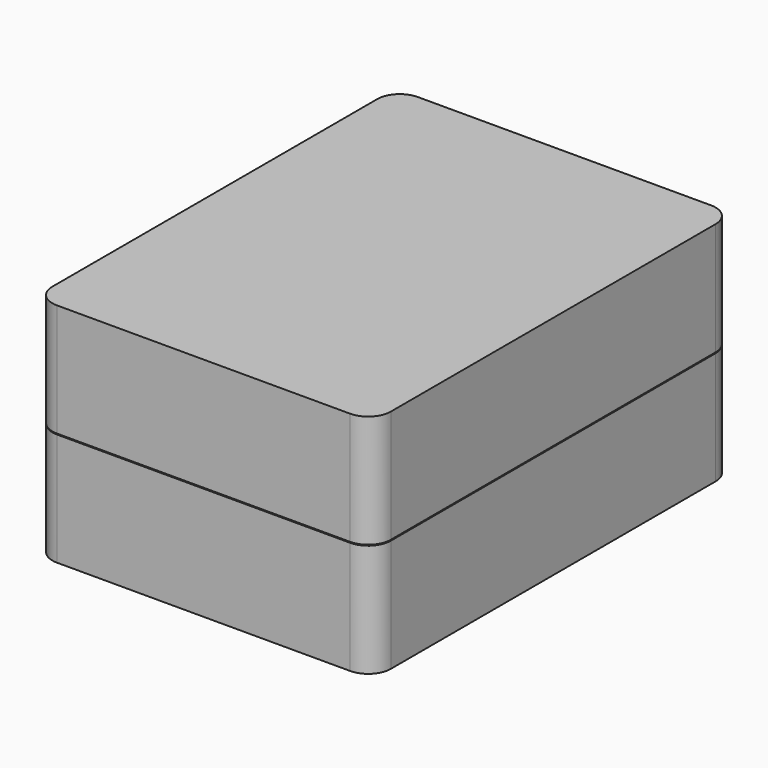
from build123d import *

# Parameters (mm, degrees)
PAD_DEPTH      = 25
THICKNESS_T    = -2
PAD001_DEPTH   = 3
PAD002_DEPTH   = 25
THICKNESS001_T = -2
POCKET_DEPTH   = 3


with BuildPart() as base:
    # Sketch → Pad (new body)
    with BuildSketch(Plane.XY):
        with BuildLine():
            Line((-37.5, 45), (-37.5, -45))
            ThreePointArc((-37.5, -45), (-36.035534, -48.535534), (-32.5, -50))
            Line((-32.5, -50), (32.5, -50))
            ThreePointArc((32.5, -50), (36.035534, -48.535534), (37.5, -45))
            Line((37.5, -45), (37.5, 45))
            ThreePointArc((37.5, 45), (36.035534, 48.535534), (32.5, 50))
            Line((32.5, 50), (-32.5, 50))
            ThreePointArc((-32.5, 50), (-36.035534, 48.535534), (-37.5, 45))
        make_face()
    extrude(amount=PAD_DEPTH)

    # Thickness
    thickness_openings = [base.faces().sort_by_distance(p)[0] for p in [
        (0, 0, 25),
    ]]
    offset(amount=THICKNESS_T, openings=thickness_openings)

    # Sketch001 (on Face10 of Thickness) → Pad001 (join)
    with BuildSketch(Plane.XY.offset(25)):
        with BuildLine():
            Line((-36.5, 45), (-36.5, -45))
            ThreePointArc((-36.5, -45), (-35.328427, -47.828427), (-32.5, -49))
            Line((-32.5, -49), (32.5, -49))
            ThreePointArc((32.5, -49), (35.328427, -47.828427), (36.5, -45))
            Line((36.5, -45), (36.5, 45))
            ThreePointArc((36.5, 45), (35.328427, 47.828427), (32.5, 49))
            Line((32.5, 49), (-32.5, 49))
            ThreePointArc((-32.5, 49), (-35.328427, 47.828427), (-36.5, 45))
        make_face()
        with BuildLine():
            Line((-35.5, 45), (-35.5, -45))
            ThreePointArc((-35.5, -45), (-34.62132, -47.12132), (-32.5, -48))
            Line((-32.5, -48), (32.5, -48))
            ThreePointArc((32.5, -48), (34.62132, -47.12132), (35.5, -45))
            Line((35.5, -45), (35.5, 45))
            ThreePointArc((35.5, 45), (34.62132, 47.12132), (32.5, 48))
            Line((32.5, 48), (-32.5, 48))
            ThreePointArc((-32.5, 48), (-34.62132, 47.12132), (-35.5, 45))
        make_face(mode=Mode.SUBTRACT)
    extrude(amount=PAD001_DEPTH)


with BuildPart() as lid:
    # Sketch002 → Pad002 (new body)
    with BuildSketch(Plane.XY.offset(25.2)):
        with BuildLine():
            Line((-37.5, 45), (-37.5, -45))
            ThreePointArc((-37.5, -45), (-36.035534, -48.535534), (-32.5, -50))
            Line((-32.5, -50), (32.5, -50))
            ThreePointArc((32.5, -50), (36.035534, -48.535534), (37.5, -45))
            Line((37.5, -45), (37.5, 45))
            ThreePointArc((37.5, 45), (36.035534, 48.535534), (32.5, 50))
            Line((32.5, 50), (-32.5, 50))
            ThreePointArc((-32.5, 50), (-36.035534, 48.535534), (-37.5, 45))
        make_face()
    extrude(amount=PAD002_DEPTH)

    # Thickness001
    thickness001_openings = [lid.faces().sort_by_distance(p)[0] for p in [
        (0, 0, 25.2),
    ]]
    offset(amount=THICKNESS001_T, openings=thickness001_openings)

    # Sketch003 (on Face10 of Thickness001) → Pocket (cut)
    with BuildSketch(Plane(origin=(0, 0, 25.2), x_dir=(1, 0, 0), z_dir=(0, 0, -1))):
        with BuildLine():
            Line((-36.7, 45), (-36.7, -45))
            ThreePointArc((-36.7, -45), (-35.469848, -47.969848), (-32.5, -49.2))
            Line((-32.5, -49.2), (32.5, -49.2))
            ThreePointArc((32.5, -49.2), (35.469848, -47.969848), (36.7, -45))
            Line((36.7, -45), (36.7, 45))
            ThreePointArc((36.7, 45), (35.469848, 47.969848), (32.5, 49.2))
            Line((32.5, 49.2), (-32.5, 49.2))
            ThreePointArc((-32.5, 49.2), (-35.469848, 47.969848), (-36.7, 45))
        make_face()
        with BuildLine():
            Line((-35.5, 45), (-35.5, -45))
            ThreePointArc((-35.5, -45), (-34.62132, -47.12132), (-32.5, -48))
            Line((-32.5, -48), (32.5, -48))
            ThreePointArc((32.5, -48), (34.62132, -47.12132), (35.5, -45))
            Line((35.5, -45), (35.5, 45))
            ThreePointArc((35.5, 45), (34.62132, 47.12132), (32.5, 48))
            Line((32.5, 48), (-32.5, 48))
            ThreePointArc((-32.5, 48), (-34.62132, 47.12132), (-35.5, 45))
        make_face(mode=Mode.SUBTRACT)
    extrude(amount=-POCKET_DEPTH, mode=Mode.SUBTRACT)


solid = Compound([base.part, lid.part])
